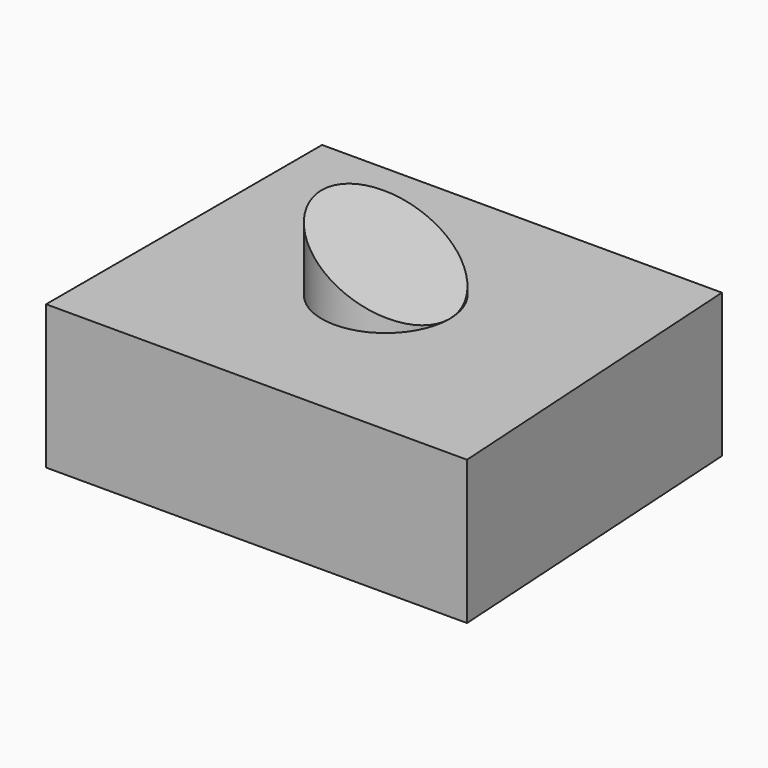
from build123d import *

# Parameters (mm, degrees)
F1_DEPTH = 25.4
F2_R     = 11.286244
F3_DEPTH = 12.7
F5_DEPTH = 60.933791


with BuildPart() as f1:
    # F0 (on Top) → F1 (new body)
    with BuildSketch(Plane.XY):
        Polygon((-44.223279, 20.360047), (-44.223279, -40.572744), (30.122576, -40.572744), (26.401911, 20.360047), align=None)
    extrude(amount=F1_DEPTH)

    # F2 (on face) → F3 (join)
    with BuildSketch(Plane.XY.offset(25.4)):
        with Locations((-9.318016, -9.232202)):
            Circle(F2_R)
    extrude(amount=F3_DEPTH)

    # F4 (on face) → F5 (cut, through all)
    with BuildSketch(Plane.XZ.offset(40.572744)):
        Polygon((1.968228, 38.1), (-20.604259, 38.1), (1.968228, 25.4), align=None)
    extrude(amount=-F5_DEPTH, mode=Mode.SUBTRACT)


solid = f1.part
